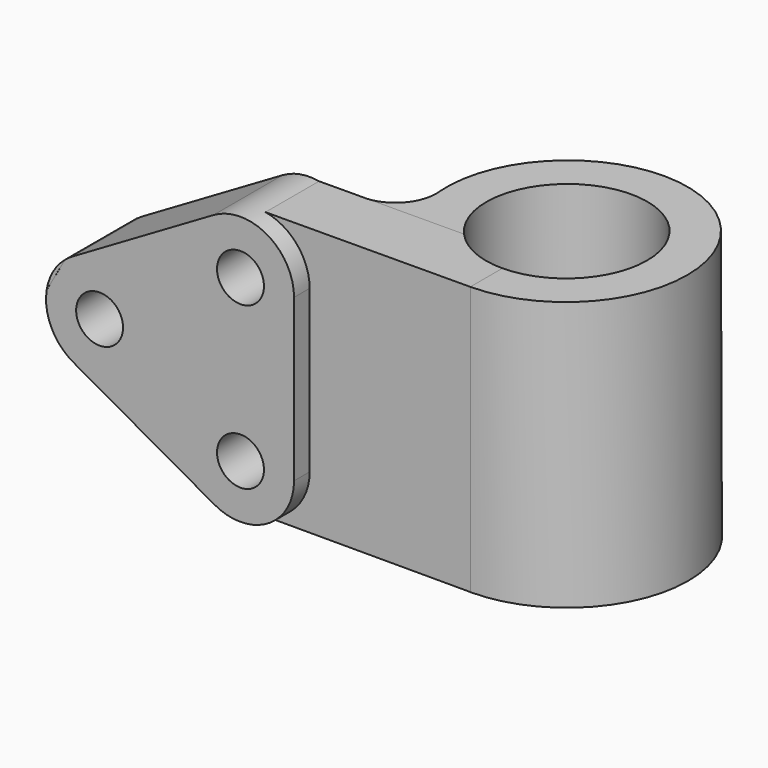
from build123d import *

# Parameters (mm, degrees)
F1_DEPTH  = 7.9375
F3_DEPTH  = 15.875
F4_W      = 71.9558009878
F4_H      = 13.6753677544
F5_DEPTH  = 87.884
F7_DEPTH  = 84.582
F8_R      = 5.5626
F9_DEPTH  = 25.4
F10_R     = 28.575
F11_DEPTH = 63.7286
F12_R     = 19.05
F13_DEPTH = 95.758
F15_DEPTH = 63.5


with BuildPart() as f1:
    # F0 (on Front) → F1 (new body, symmetric)
    with BuildSketch(Plane.XZ):
        Polygon((0, 63.5), (0, 0), (50.8, 0), (50.8, 63.7060776353), align=None)
    extrude(amount=F1_DEPTH, both=True)

    # F2 (on face) → F3 (join, symmetric)
    with BuildSketch(Plane.XZ.offset(7.9375)):
        with BuildLine():
            ThreePointArc((-39.632043346, 20.4206049765), (-26.9943232846, 20.5270910991), (-20.706004086, 31.4897709403))
            ThreePointArc((-20.706004086, 31.4897709403), (-27.0842562365, 42.5045566453), (-39.8123826888, 42.4555501282))
            ThreePointArc((-39.8123826888, 42.4555501282), (-46.1055787727, 31.3858345367), (-39.632043346, 20.4206049765))
        make_face()
        with BuildLine():
            ThreePointArc((-39.8123826888, 42.4555501282), (-27.0842562365, 42.5045566453), (-20.706004086, 31.4897709403))
            ThreePointArc((-20.706004086, 31.4897709403), (-26.9943232846, 20.5270910991), (-39.632043346, 20.4206049765))
            Line((-39.632043346, 20.4206049765), (-6.22603926, 1.6308340362))
            ThreePointArc((-6.22603926, 1.6308340362), (-6.4116808014, 23.6626798412), (12.7, 12.7))
            Line((12.7, 12.7), (12.7, 51.0060776353))
            ThreePointArc((12.7, 51.0060776353), (-6.3217478495, 39.9912919303), (-6.4063786028, 61.9718568232))
            Line((-6.4063786028, 61.9718568232), (-39.8123826888, 42.4555501282))
        make_face()
        with BuildLine():
            ThreePointArc((12.7, 51.0060776353), (6.3217478495, 62.0208633403), (-6.4063786028, 61.9718568232))
            ThreePointArc((-6.4063786028, 61.9718568232), (-6.3217478495, 39.9912919303), (12.7, 51.0060776353))
        make_face()
        with BuildLine():
            ThreePointArc((12.7, 12.7), (-6.4116808014, 23.6626798412), (-6.22603926, 1.6308340362))
            ThreePointArc((-6.22603926, 1.6308340362), (6.4116808014, 1.7373201588), (12.7, 12.7))
        make_face()
    extrude(amount=F3_DEPTH, both=True)

    # F4 (on face) → F5 (cut)
    with BuildSketch(Plane(origin=(-0.7994989556, 0, -1.4214151659), x_dir=(0.8715878712, 0, -0.4902393118), z_dir=(-0.4902393118, 0, -0.8715878712))):
        with Locations((-20.4755323939, 19.3995043051)):
            Rectangle(F4_W, F4_H)
    extrude(amount=-F5_DEPTH, mode=Mode.SUBTRACT)

    # F6 (on Top) → F7 (cut)
    with BuildSketch(Plane.XY):
        Polygon((-39.6329276264, -12.583178468), (-41.4357371628, -12.583178468), (-46.0986830294, -12.583178468), (-46.0986830294, -26.8648453057), (-39.6329276264, -26.8648453057), align=None)
    extrude(amount=F7_DEPTH, mode=Mode.SUBTRACT)

    # F8 (on face) → F9 (cut)
    with BuildSketch(Plane.XZ.offset(12.5618204279)):
        with Locations((0, 51.0060776353)):
            Circle(F8_R)
        with Locations((0, 12.7)):
            Circle(F8_R)
        with Locations((-33.406004086, 31.4897709403)):
            Circle(F8_R)
    extrude(amount=-F9_DEPTH, mode=Mode.SUBTRACT)

    # F10 (on face) → F11 (join)
    with BuildSketch(Plane(origin=(-0.2575928051, 0, 63.4989550371), x_dir=(0.9999917719, 0, 0.004056613), z_dir=(-0.004056613, 0, 0.9999917719))):
        with Locations((51.0580129149, 20.6375)):
            Circle(F10_R)
    extrude(amount=-F11_DEPTH)

    # F12 (on face) → F13 (cut)
    with BuildSketch(Plane(origin=(-0.2575928051, 0, 63.4989550371), x_dir=(0.9999917719, 0, 0.004056613), z_dir=(-0.004056613, 0, 0.9999917719))):
        with Locations((51.0580129149, 20.6375)):
            Circle(F12_R)
    extrude(amount=-F13_DEPTH, mode=Mode.SUBTRACT)

    # F14 (on face) → F15 (join)
    with BuildSketch(Plane(origin=(-0.2575928051, 0, 63.4989550371), x_dir=(0.9999917719, 0, 0.004056613), z_dir=(-0.004056613, 0, 0.9999917719))):
        with BuildLine():
            Line((13.9709103513, 7.9375), (12.2397709638, 7.9375))
            ThreePointArc((12.2397709638, 7.9375), (13.1053406575, 7.8980898133), (13.9709103513, 7.9375))
        make_face()
        with BuildLine():
            ThreePointArc((22.5536784489, 18.6291320929), (20.5331210195, 11.4603971418), (13.9709103513, 7.9375))
            Line((13.9709103513, 7.9375), (25.4603445641, 7.9375))
            Line((25.4603445641, 7.9375), (22.5536784489, 18.6291320929))
        make_face()
    extrude(amount=-F15_DEPTH)


solid = f1.part
